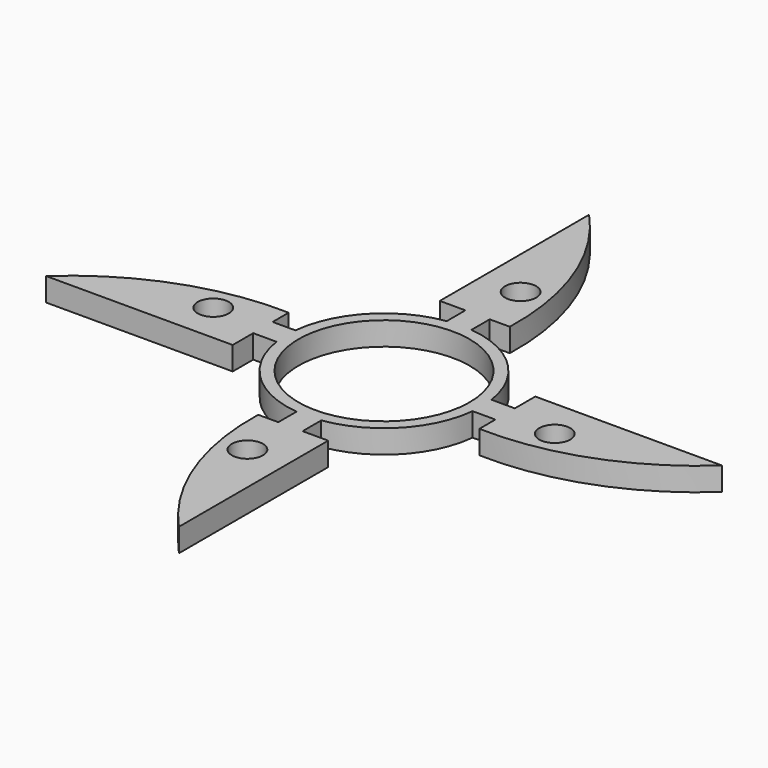
from build123d import *

# Parameters (mm, degrees)
F0_R     = 2
F0_R_2   = 11
F1_DEPTH = 3


with BuildPart() as f1:
    # F0 (on Top) → F1 (new body)
    with BuildSketch(Plane.XY):
        with BuildLine():
            Line((-1.822556, 15.366418), (1.301658, 15.366418))
            Line((1.301658, 15.366418), (3.884909, 15.366418))
            ThreePointArc((3.884909, 15.366418), (1.741215, 28.250033), (-5.115091, 39.366418))
            Line((-5.115091, 39.366418), (-5.115091, 15.366418))
            Line((-5.115091, 15.366418), (-1.822556, 15.366418))
        make_face()
        with Locations((0, 21.95785)):
            Circle(F0_R, mode=Mode.SUBTRACT)
        with BuildLine():
            ThreePointArc((-1.822556, 12.366418), (-0.262508, 12.497243), (1.301658, 12.432043))
            Line((1.301658, 12.432043), (1.301658, 15.366418))
            Line((1.301658, 15.366418), (-1.822556, 15.366418))
            Line((-1.822556, 15.366418), (-1.822556, 12.366418))
        make_face()
        with BuildLine():
            ThreePointArc((12.432043, -1.301658), (12.482999, -0.651715), (12.5, 0))
            ThreePointArc((12.5, 0), (12.46656, 0.913722), (12.366418, 1.822556))
            ThreePointArc((12.366418, 1.822556), (8.651264, 9.022507), (1.301658, 12.432043))
            ThreePointArc((1.301658, 12.432043), (-0.262508, 12.497243), (-1.822556, 12.366418))
            ThreePointArc((-1.822556, 12.366418), (-9.022507, 8.651264), (-12.432043, 1.301658))
            ThreePointArc((-12.432043, 1.301658), (-12.497243, -0.262508), (-12.366418, -1.822556))
            ThreePointArc((-12.366418, -1.822556), (-8.651264, -9.022507), (-1.301658, -12.432043))
            ThreePointArc((-1.301658, -12.432043), (0.262508, -12.497243), (1.822556, -12.366418))
            ThreePointArc((1.822556, -12.366418), (9.022507, -8.651264), (12.432043, -1.301658))
        make_face()
        Circle(F0_R_2, mode=Mode.SUBTRACT)
        with BuildLine():
            Line((15.366418, 5.115091), (15.366418, 1.822556))
            Line((15.366418, 1.822556), (15.366418, -1.301658))
            Line((15.366418, -1.301658), (15.366418, -3.884909))
            ThreePointArc((15.366418, -3.884909), (28.250033, -1.741215), (39.366418, 5.115091))
            Line((39.366418, 5.115091), (15.366418, 5.115091))
        make_face()
        with Locations((21.95785, 0)):
            Circle(F0_R, mode=Mode.SUBTRACT)
        with BuildLine():
            Line((1.822556, -15.366418), (1.822556, -12.366418))
            ThreePointArc((1.822556, -12.366418), (0.262508, -12.497243), (-1.301658, -12.432043))
            Line((-1.301658, -12.432043), (-1.301658, -15.366418))
            Line((-1.301658, -15.366418), (1.822556, -15.366418))
        make_face()
        with BuildLine():
            Line((5.115091, -15.366418), (1.822556, -15.366418))
            Line((1.822556, -15.366418), (-1.301658, -15.366418))
            Line((-1.301658, -15.366418), (-3.884909, -15.366418))
            ThreePointArc((-3.884909, -15.366418), (-1.741215, -28.250033), (5.115091, -39.366418))
            Line((5.115091, -39.366418), (5.115091, -15.366418))
        make_face()
        with Locations((0, -21.95785)):
            Circle(F0_R, mode=Mode.SUBTRACT)
        with BuildLine():
            Line((-15.366418, -1.822556), (-15.366418, 1.301658))
            Line((-15.366418, 1.301658), (-15.366418, 3.884909))
            ThreePointArc((-15.366418, 3.884909), (-28.250033, 1.741215), (-39.366418, -5.115091))
            Line((-39.366418, -5.115091), (-15.366418, -5.115091))
            Line((-15.366418, -5.115091), (-15.366418, -1.822556))
        make_face()
        with Locations((-21.95785, 0)):
            Circle(F0_R, mode=Mode.SUBTRACT)
        with BuildLine():
            ThreePointArc((-12.366418, -1.822556), (-12.497243, -0.262508), (-12.432043, 1.301658))
            Line((-12.432043, 1.301658), (-15.366418, 1.301658))
            Line((-15.366418, 1.301658), (-15.366418, -1.822556))
            Line((-15.366418, -1.822556), (-12.366418, -1.822556))
        make_face()
        with BuildLine():
            ThreePointArc((12.366418, 1.822556), (12.46656, 0.913722), (12.5, 0))
            ThreePointArc((12.5, 0), (12.482999, -0.651715), (12.432043, -1.301658))
            Line((12.432043, -1.301658), (15.366418, -1.301658))
            Line((15.366418, -1.301658), (15.366418, 1.822556))
            Line((15.366418, 1.822556), (12.366418, 1.822556))
        make_face()
    extrude(amount=F1_DEPTH)


solid = f1.part
